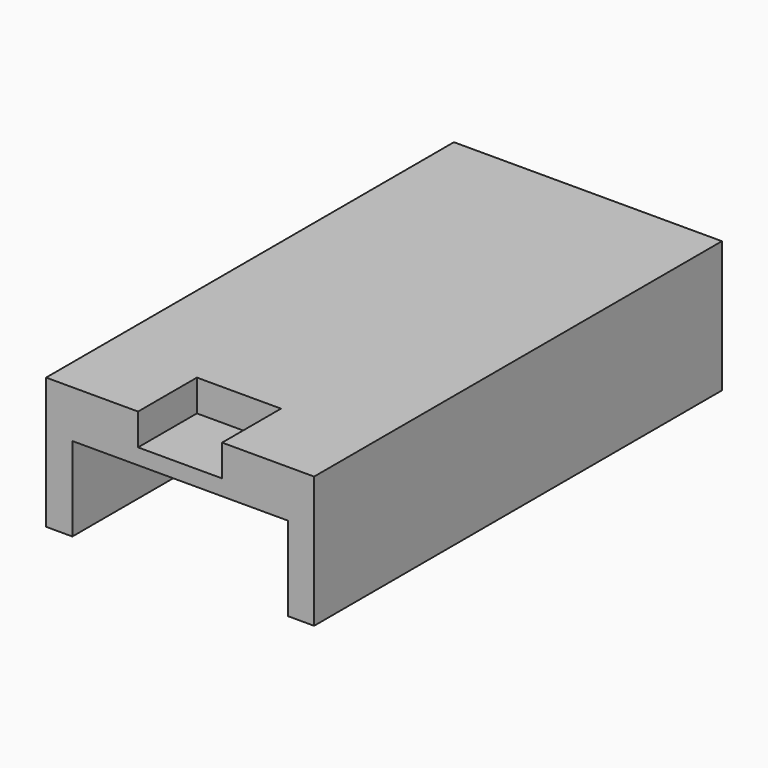
from build123d import *

# Parameters (mm, degrees)
F0_W     = 2.5
F0_H     = 8
F1_DEPTH = 24.25
F2_W     = 8
F2_H     = 3
F3_DEPTH = 7


with BuildPart() as f1:
    # F0 (on Front) → F1 (new body, symmetric)
    with BuildSketch(Plane.XZ):
        Polygon((-12.75, 12.5), (-12.75, 8), (-10.25, 8), (10.25, 8), (12.75, 8), (12.75, 12.5), align=None)
        with Locations((-11.5, 4)):
            Rectangle(F0_W, F0_H)
        with Locations((11.5, 4)):
            Rectangle(F0_W, F0_H)
    extrude(amount=F1_DEPTH, both=True)

    # F2 (on face) → F3 (cut)
    with BuildSketch(Plane.XZ.offset(24.25)):
        with Locations((0, 11)):
            Rectangle(F2_W, F2_H)
    extrude(amount=-F3_DEPTH, mode=Mode.SUBTRACT)


solid = f1.part
